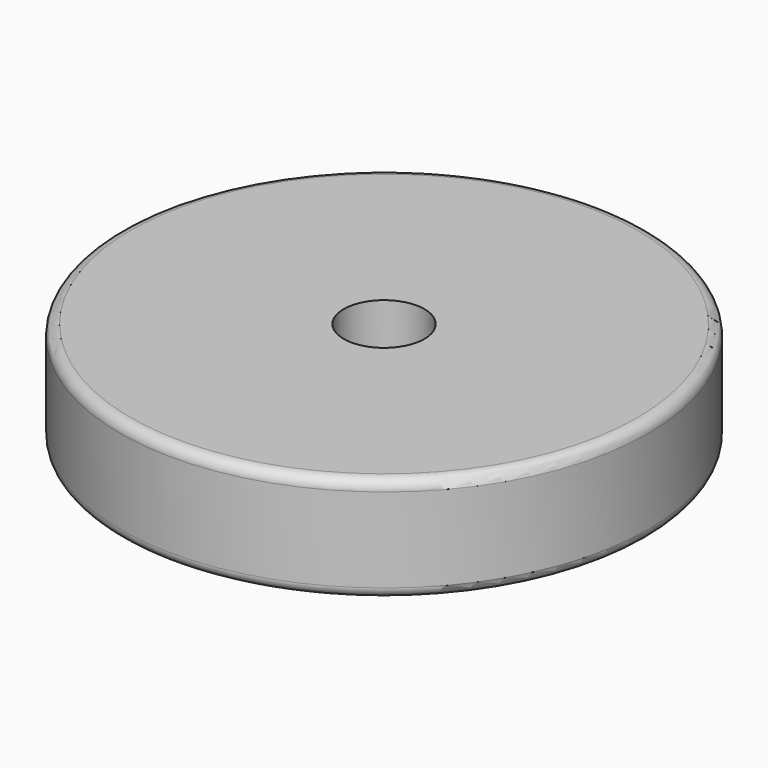
from build123d import *

# Parameters (mm, degrees)
F0_R     = 63.5
F0_R_2   = 4.1275
F1_DEPTH = 25.4
F2_R     = 2.54
F3_R     = 9.7155
F4_DEPTH = 406.4


with BuildPart() as f1:
    # F0 (on Top) → F1 (new body)
    with BuildSketch(Plane.XY):
        Circle(F0_R)
        Circle(F0_R_2, mode=Mode.SUBTRACT)
    extrude(amount=F1_DEPTH)

    # F2
    f2_edges = [f1.edges().sort_by_distance(p)[0] for p in [
        (-63.5, 0, 25.4),
        (-63.5, 0, 0),
    ]]
    fillet(f2_edges, radius=F2_R)

    # F3 (on Top) → F4 (cut, symmetric)
    with BuildSketch(Plane.XY):
        Circle(F3_R)
    extrude(amount=F4_DEPTH, both=True, mode=Mode.SUBTRACT)


solid = f1.part
